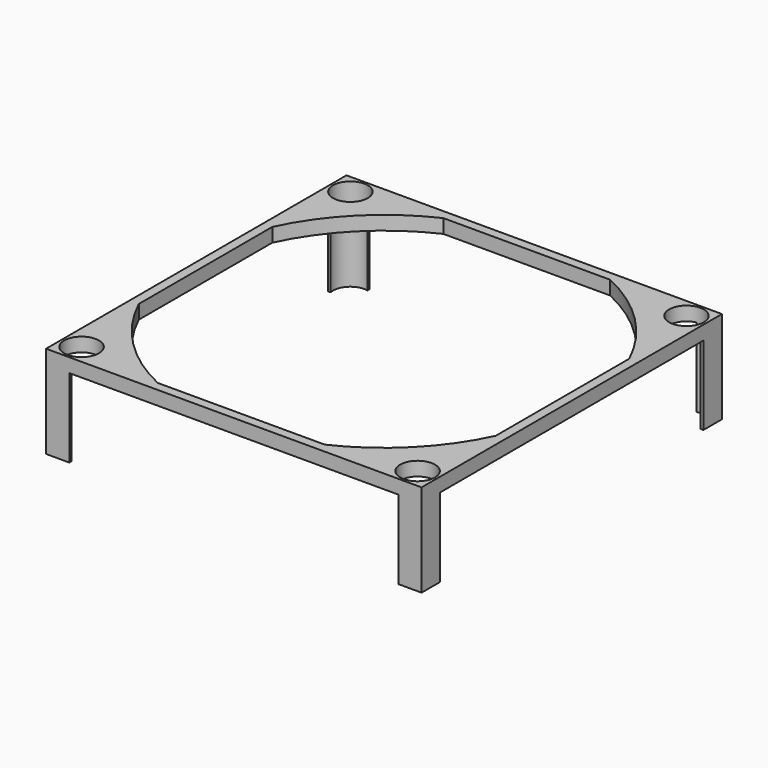
from build123d import *

# Parameters (mm, degrees)
F0_W     = 81
F0_H     = 81
F1_DEPTH = 20
F2_W     = 71
F2_H     = 20.792734
F3_DEPTH = 81.001
F4_W     = 71
F4_H     = 29.603668
F5_DEPTH = 81.001
F6_R     = 3.75
F7_DEPTH = 20.001


with BuildPart() as f1:
    # F0 (on Top) → F1 (new body)
    with BuildSketch(Plane.XY):
        Rectangle(F0_W, F0_H)
        with BuildLine():
            ThreePointArc((-38.5, 18), (-30.052038, 30.052038), (-18, 38.5))
            Line((-18, 38.5), (18, 38.5))
            ThreePointArc((18, 38.5), (30.052038, 30.052038), (38.5, 18))
            Line((38.5, 18), (38.5, -18))
            ThreePointArc((38.5, -18), (30.052038, -30.052038), (18, -38.5))
            Line((18, -38.5), (-18, -38.5))
            ThreePointArc((-18, -38.5), (-30.052038, -30.052038), (-38.5, -18))
            Line((-38.5, -18), (-38.5, 18))
        make_face(mode=Mode.SUBTRACT)
    extrude(amount=F1_DEPTH)

    # F2 (on face) → F3 (cut, through all)
    with BuildSketch(Plane.XZ.offset(40.5)):
        with Locations((0, 6.603633)):
            Rectangle(F2_W, F2_H)
    extrude(amount=-F3_DEPTH, mode=Mode.SUBTRACT)

    # F4 (on face) → F5 (cut, through all)
    with BuildSketch(Plane(origin=(-40.5, 0, 0), x_dir=(0, -1, 0), z_dir=(-1, 0, 0))):
        with Locations((0, 2.198166)):
            Rectangle(F4_W, F4_H)
    extrude(amount=-F5_DEPTH, mode=Mode.SUBTRACT)

    # F6 (on face) → F7 (cut, through all)
    with BuildSketch(Plane.XY.offset(20)):
        with Locations((-36.25, 36.25)):
            Circle(F6_R)
        with Locations((36.25, 36.25)):
            Circle(F6_R)
        with Locations((-36.25, -36.25)):
            Circle(F6_R)
        with Locations((36.25, -36.25)):
            Circle(F6_R)
    extrude(amount=-F7_DEPTH, mode=Mode.SUBTRACT)


solid = f1.part
